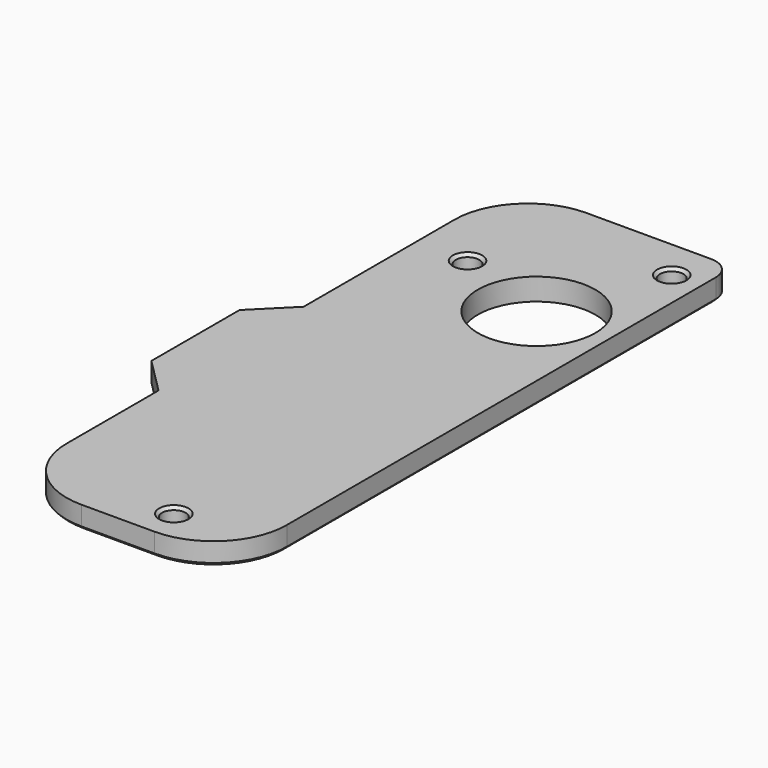
from build123d import *

# Parameters (mm, degrees)
CYLINDER024_R     = 8
CYLINDER024_DEPTH = 10
BOX038_W          = 10
BOX038_H          = 24.7
BOX038_DEPTH      = 3
CHAMFER043_SIZE   = 4.85
CYLINDER022_R     = 1.6
CYLINDER022_DEPTH = 10
CYLINDER018_R     = 1.6
CYLINDER018_DEPTH = 10
CYLINDER023_R     = 1.6
CYLINDER023_DEPTH = 10
BOX036_W          = 30
BOX036_H          = 86
BOX036_DEPTH      = 3
FILLET008_R       = 10
FILLET010_R       = 10
FILLET012_R       = 3
CHAMFER044_SIZE   = 0.4
CHAMFER047_SIZE   = 0.4


with BuildPart() as cylinder024:
    # Cylinder024 → Cylinder024 (new body)
    with BuildSketch(Plane(origin=(70, 24.5, 0), x_dir=(1, 0, 0), z_dir=(0, 0, 1))):
        Circle(CYLINDER024_R)
    extrude(amount=CYLINDER024_DEPTH)


with BuildPart() as chamfer043:
    # Box038 → Box038 (new body)
    with BuildSketch(Plane(origin=(45.15, -14.85, 0), x_dir=(1, 0, 0), z_dir=(0, 0, 1))):
        with Locations((5, 12.35)):
            Rectangle(BOX038_W, BOX038_H)
    extrude(amount=BOX038_DEPTH)

    # Chamfer043
    chamfer043_edges = [chamfer043.edges().sort_by_distance(p)[0] for p in [
        (45.15, -14.85, 1.5),
        (45.15, 9.85, 1.5),
    ]]
    chamfer(chamfer043_edges, length=CHAMFER043_SIZE)


with BuildPart() as cylinder022:
    # Cylinder022 → Cylinder022 (new body)
    with BuildSketch(Plane(origin=(76, 40, 0), x_dir=(1, 0, 0), z_dir=(0, 0, 1))):
        Circle(CYLINDER022_R)
    extrude(amount=CYLINDER022_DEPTH)


with BuildPart() as cylinder018:
    # Cylinder018 → Cylinder018 (new body)
    with BuildSketch(Plane(origin=(57, 29, 0), x_dir=(1, 0, 0), z_dir=(0, 0, 1))):
        Circle(CYLINDER018_R)
    extrude(amount=CYLINDER018_DEPTH)


with BuildPart() as fusion002003014:
    # Cylinder023 → Cylinder023 (new body)
    with BuildSketch(Plane(origin=(69, -36, 0), x_dir=(1, 0, 0), z_dir=(0, 0, 1))):
        Circle(CYLINDER023_R)
    extrude(amount=CYLINDER023_DEPTH)

    # Fusion002003014: union Cylinder022, Cylinder018
    add(cylinder022.part)
    add(cylinder018.part)


with BuildPart() as right_drill:
    # Box036 → Box036 (new body)
    with BuildSketch(Plane(origin=(50, -40.5, 0), x_dir=(1, 0, 0), z_dir=(0, 0, 1))):
        with Locations((15, 43)):
            Rectangle(BOX036_W, BOX036_H)
    extrude(amount=BOX036_DEPTH)

    # Cut011: cut Fusion002003014
    add(fusion002003014.part, mode=Mode.SUBTRACT)

    # Fusion002003017: union Chamfer043
    add(chamfer043.part)

    # Fillet008
    fillet008_edges = [right_drill.edges().sort_by_distance(p)[0] for p in [
        (50, -40.5, 1.5),
        (50, 45.5, 1.5),
    ]]
    fillet(fillet008_edges, radius=FILLET008_R)

    # Fillet010
    fillet010_edges = [right_drill.edges().sort_by_distance(p)[0] for p in [
        (80, -40.5, 1.5),
    ]]
    fillet(fillet010_edges, radius=FILLET010_R)

    # Fillet012
    fillet012_edges = [right_drill.edges().sort_by_distance(p)[0] for p in [
        (80, 45.5, 1.5),
    ]]
    fillet(fillet012_edges, radius=FILLET012_R)

    # Chamfer044
    chamfer044_edges = [right_drill.edges().sort_by_distance(p)[0] for p in [
        (80, 6, 0),
        (79.12132, 44.62132, 0),
        (77.071068, -37.571068, 0),
        (68.5, 45.5, 0),
        (65, -40.5, 0),
        (52.928932, 42.571068, 0),
        (52.928932, -37.571068, 0),
        (50, 22.675, 0),
        (50, -22.675, 0),
        (47.575, 7.425, 0),
        (47.575, -12.425, 0),
        (45.15, -2.5, 0),
        (55.4, 29, 0),
        (67.4, -36, 0),
        (74.4, 40, 0),
    ]]
    chamfer(chamfer044_edges, length=CHAMFER044_SIZE)

    # Chamfer047
    chamfer047_edges = [right_drill.edges().sort_by_distance(p)[0] for p in [
        (55.4, 29, 3),
        (67.4, -36, 3),
        (74.4, 40, 3),
    ]]
    chamfer(chamfer047_edges, length=CHAMFER047_SIZE)

    # Cut013: cut Cylinder024
    add(cylinder024.part, mode=Mode.SUBTRACT)


solid = right_drill.part
